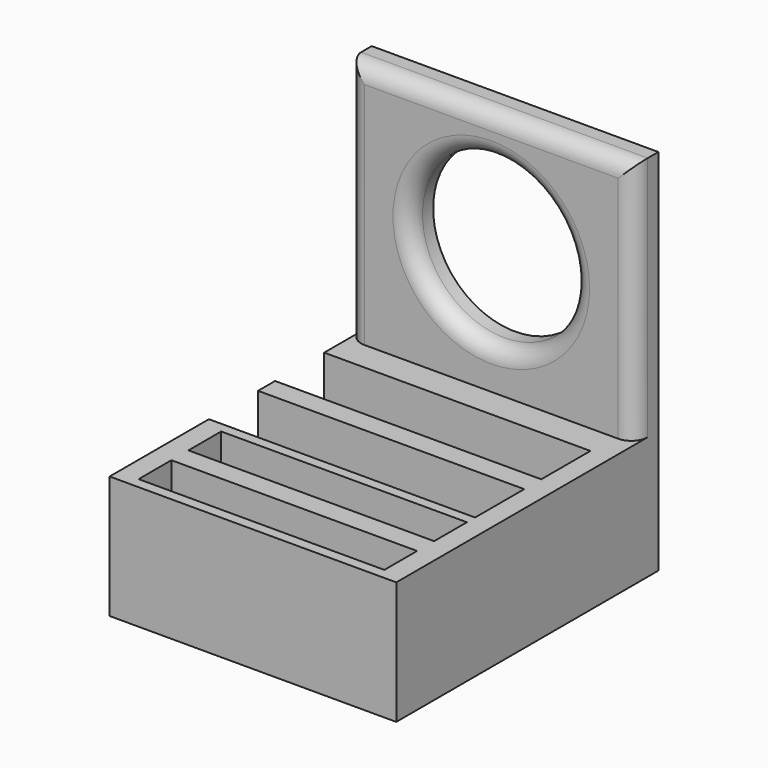
from build123d import *

# Parameters (mm, degrees)
F1_DEPTH  = 101.6
F3_DEPTH  = 31.75
F4_W      = 19.05
F4_H      = 31.75
F5_DEPTH  = 88.901
F6_W      = 88.9
F6_H      = 9.2075
F7_DEPTH  = 76.2
F8_R      = 25.4
F9_DEPTH  = 9.2085
F10_R     = 5.08
F11_W     = 19.05
F11_H     = 31.75
F12_DEPTH = 6.35


with BuildPart() as f1:
    # F0 (on Front) → F1 (new body)
    with BuildSketch(Plane.XZ):
        Polygon((44.45, 19.05), (0, 19.05), (-44.45, 19.05), (-44.45, 0), (-44.45, -19.05), (0, -19.05), (44.45, -19.05), (44.45, 0), align=None)
    extrude(amount=F1_DEPTH)

    # F2 (on face) → F3 (cut)
    with BuildSketch(Plane.XY.offset(19.05)):
        Polygon((38.1, -85.598), (0, -85.598), (-38.1, -85.598), (-38.1, -98.298), (0, -98.298), (38.1, -98.298), align=None)
        Polygon((-38.1, -78.994), (0, -78.994), (38.1, -78.994), (38.1, -66.294), (0, -66.294), (-38.1, -66.294), align=None)
    extrude(amount=-F3_DEPTH, mode=Mode.SUBTRACT)

    # F4 (on face) → F5 (cut, through all)
    with BuildSketch(Plane(origin=(-44.45, 0, 0), x_dir=(0, -1, 0), z_dir=(-1, 0, 0))):
        with Locations((53.594, 3.175)):
            Rectangle(F4_W, F4_H)
        with Locations((27.94, 3.175)):
            Rectangle(F4_W, F4_H)
    extrude(amount=-F5_DEPTH, mode=Mode.SUBTRACT)

    # F6 (on face) → F7 (join)
    with BuildSketch(Plane.XY.offset(19.05)):
        with Locations((0, -4.60375)):
            Rectangle(F6_W, F6_H)
    extrude(amount=F7_DEPTH)

    # F8 (on face) → F9 (cut, through all)
    with BuildSketch(Plane.XZ.offset(9.2075)):
        with Locations((0, 57.15)):
            Circle(F8_R)
    extrude(amount=-F9_DEPTH, mode=Mode.SUBTRACT)

    # F10
    f10_edges = [f1.edges().sort_by_distance(p)[0] for p in [
        (0, -9.2075, 95.25),
        (-44.45, -9.2075, 57.15),
        (44.45, -9.2075, 57.15),
        (-25.4, -9.2075, 57.15),
    ]]
    fillet(f10_edges, radius=F10_R)

    # F11 (on face) → F12 (join, through all)
    with BuildSketch(Plane.YZ.offset(44.45)):
        with Locations((-53.594, 3.175)):
            Rectangle(F11_W, F11_H)
        with Locations((-27.94, 3.175)):
            Rectangle(F11_W, F11_H)
    extrude(amount=-F12_DEPTH)


solid = f1.part
